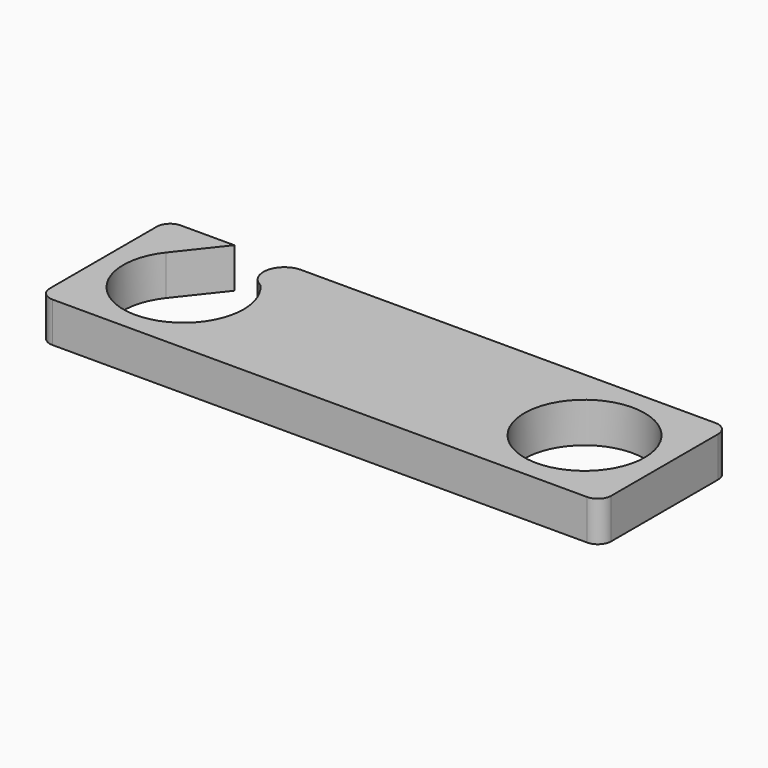
from build123d import *

# Parameters (mm, degrees)
F0_R     = 4.5
F1_DEPTH = 3


with BuildPart() as f1:
    # F0 (on Top) → F1 (new body)
    with BuildSketch(Plane.XY):
        with BuildLine():
            Line((-16, 6), (-20, 6))
            ThreePointArc((-20, 6), (-20.707107, 5.707107), (-21, 5))
            Line((-21, 5), (-21, -5))
            ThreePointArc((-21, -5), (-20.707107, -5.707107), (-20, -6))
            Line((-20, -6), (20, -6))
            ThreePointArc((20, -6), (20.707107, -5.707107), (21, -5))
            Line((21, -5), (21, 5))
            ThreePointArc((21, 5), (20.707107, 5.707107), (20, 6))
            Line((20, 6), (-11, 6))
            ThreePointArc((-11, 6), (-12.525032, 4.779072), (-11.667379, 3.023845))
            ThreePointArc((-11.667379, 3.023845), (-14.844236, -4.497303), (-18.533845, 2.786026))
            Line((-18.533845, 2.786026), (-16, 6))
        make_face()
        with Locations((15, 0)):
            Circle(F0_R, mode=Mode.SUBTRACT)
    extrude(amount=F1_DEPTH)


solid = f1.part
